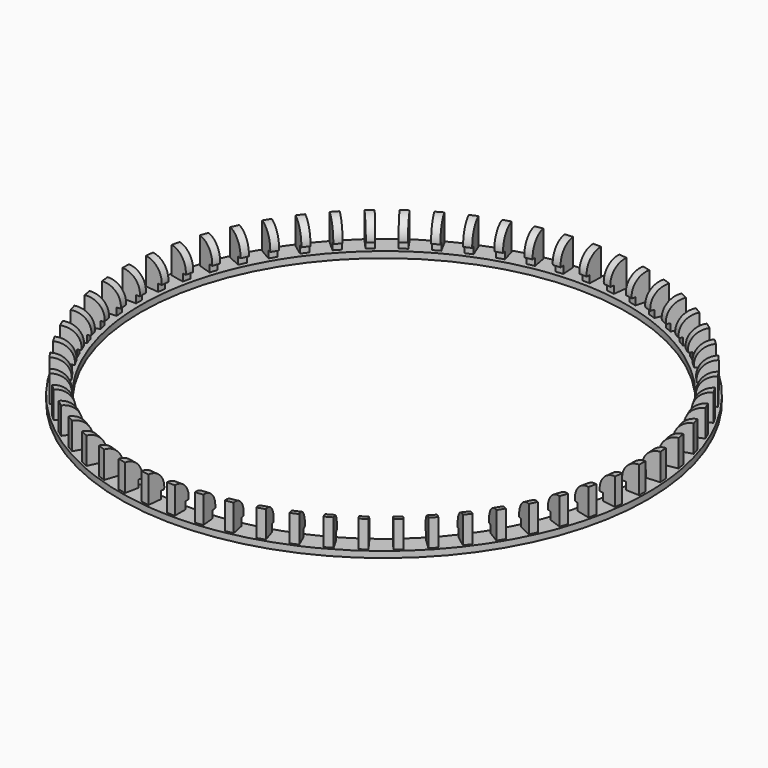
from build123d import *

# Parameters (mm, degrees)
F0_R     = 143.5
F0_R_2   = 132.3
F1_DEPTH = 18
F2_W     = 1.3
F2_H     = 14.6
F2_W_2   = 5
F2_H_2   = 2
F5_DEPTH = 14.6


with BuildPart() as f1:
    # F0 (on Top) → F1 (new body)
    with BuildSketch(Plane.XY):
        Circle(F0_R)
        Circle(F0_R_2, mode=Mode.SUBTRACT)
    extrude(amount=F1_DEPTH)

    # F2 (on Front) → F3 (revolve, cut)
    with BuildSketch(Plane.XZ):
        with Locations((-142.85, 10.7)):
            Rectangle(F2_W, F2_H)
        with BuildLine():
            Line((-132.3, 18), (-142.2, 18))
            ThreePointArc((-142.2, 18), (-135.116216, 14.813922), (-132.8, 7.4))
            Line((-132.8, 7.4), (-134.8, 7.4))
            Line((-134.8, 7.4), (-134.8, 3.4))
            Line((-134.8, 3.4), (-132.3, 3.4))
            Line((-132.3, 3.4), (-132.3, 18))
        make_face()
        with Locations((-138, 1)):
            Rectangle(F2_W_2, F2_H_2)
    revolve(axis=Axis((0, 0, 41.614685), (0, 0, 1)), mode=Mode.SUBTRACT)

    # F4 (on face) → F5 (cut)
    with BuildSketch(Plane.XY.offset(3.4)):
        with BuildLine():
            Line((-131.575247, 13.829116), (-142.713892, 14.999834))
            ThreePointArc((-142.713892, 14.999834), (-143.17348, 9.674949), (-143.434457, 4.336643))
            Line((-143.434457, 4.336643), (-132.239573, 3.998173))
            ThreePointArc((-132.239573, 3.998173), (-131.998964, 8.919831), (-131.575247, 13.829116))
        make_face()
        with BuildLine():
            Line((-132.3, 0), (-143.5, 0))
            ThreePointArc((-143.5, 0), (-143.400468, -5.343755), (-143.102011, -10.680097))
            Line((-143.102011, -10.680097), (-131.933073, -9.846529))
            ThreePointArc((-131.933073, -9.846529), (-132.208237, -4.926682), (-132.3, 0))
        make_face()
        with BuildLine():
            Line((-131.575247, -13.829116), (-142.713892, -14.999834))
            ThreePointArc((-142.713892, -14.999834), (-142.056331, -20.303912), (-141.201709, -25.579824))
            Line((-141.201709, -25.579824), (-130.181088, -23.58335))
            ThreePointArc((-130.181088, -23.58335), (-130.969008, -18.719216), (-131.575247, -13.829116))
        make_face()
        with BuildLine():
            Line((-129.408928, -27.506717), (-140.364181, -29.835328))
            ThreePointArc((-140.364181, -29.835328), (-139.155795, -35.041615), (-137.754372, -40.199293))
            Line((-137.754372, -40.199293), (-127.002811, -37.061787))
            ThreePointArc((-127.002811, -37.061787), (-128.294855, -32.30666), (-129.408928, -27.506717))
        make_face()
        with BuildLine():
            Line((-125.824777, -40.882948), (-136.47661, -44.343939))
            ThreePointArc((-136.47661, -44.343939), (-134.730639, -49.395395), (-132.797768, -54.378329))
            Line((-132.797768, -54.378329), (-122.433065, -50.134167))
            ThreePointArc((-122.433065, -50.134167), (-124.215077, -45.540144), (-125.824777, -40.882948))
        make_face()
        with BuildLine():
            Line((-120.862064, -53.811258), (-131.093773, -58.366708))
            ThreePointArc((-131.093773, -58.366708), (-128.829345, -63.207988), (-126.386205, -67.961586))
            Line((-126.386205, -67.961586), (-116.521916, -62.657267))
            ThreePointArc((-116.521916, -62.657267), (-118.774372, -58.274682), (-120.862064, -53.811258))
        make_face()
        with BuildLine():
            Line((-114.575161, -66.15), (-124.274645, -71.75))
            ThreePointArc((-124.274645, -71.75), (-121.516571, -76.328062), (-118.589928, -80.800241))
            Line((-118.589928, -80.800241), (-109.334129, -74.493881))
            ThreePointArc((-109.334129, -74.493881), (-112.032351, -70.37075), (-114.575161, -66.15))
        make_face()
        with BuildLine():
            Line((-107.032948, -77.763989), (-116.093939, -84.347184))
            ThreePointArc((-116.093939, -84.347184), (-112.872435, -88.611869), (-109.494355, -92.753632))
            Line((-109.494355, -92.753632), (-100.948454, -85.514324))
            ThreePointArc((-100.948454, -85.514324), (-104.062879, -81.695821), (-107.032948, -77.763989))
        make_face()
        with BuildLine():
            Line((-98.31806, -88.525979), (-106.641282, -96.020242))
            ThreePointArc((-106.641282, -96.020242), (-102.991646, -99.924826), (-99.199139, -103.690794))
            Line((-99.199139, -103.690794), (-91.456767, -95.597854))
            ThreePointArc((-91.456767, -95.597854), (-94.953273, -92.125815), (-98.31806, -88.525979))
        make_face()
        with BuildLine():
            Line((-88.525979, -98.31806), (-96.020242, -106.641282))
            ThreePointArc((-96.020242, -106.641282), (-91.982458, -110.142986), (-87.817076, -113.491899))
            Line((-87.817076, -113.491899), (-80.963061, -104.633995))
            ThreePointArc((-80.963061, -104.633995), (-84.80334, -101.54646), (-88.525979, -98.31806))
        make_face()
        with BuildLine():
            Line((-77.763989, -107.032948), (-84.347184, -116.093939))
            ThreePointArc((-84.347184, -116.093939), (-79.965492, -119.154396), (-75.472871, -122.049562))
            Line((-75.472871, -122.049562), (-69.582306, -112.523743))
            ThreePointArc((-69.582306, -112.523743), (-73.724283, -109.854541), (-77.763989, -107.032948))
        make_face()
        with BuildLine():
            Line((-66.15, -114.575161), (-71.75, -124.274645))
            ThreePointArc((-71.75, -124.274645), (-67.072406, -126.860326), (-62.30177, -129.270025))
            Line((-62.30177, -129.270025), (-57.439193, -119.180658))
            ThreePointArc((-57.439193, -119.180658), (-61.837487, -116.959032), (-66.15, -114.575161))
        make_face()
        with BuildLine():
            Line((-53.811258, -120.862064), (-58.366708, -131.093773))
            ThreePointArc((-58.366708, -131.093773), (-53.444462, -133.176347), (-48.448077, -135.074179))
            Line((-48.448077, -135.074179), (-44.666764, -124.531804))
            ThreePointArc((-44.666764, -124.531804), (-49.273187, -122.782096), (-53.811258, -120.862064))
        make_face()
        with BuildLine():
            Line((-40.882948, -125.824777), (-44.343939, -136.47661))
            ThreePointArc((-44.343939, -136.47661), (-39.230969, -138.033261), (-34.063577, -139.398432))
            Line((-34.063577, -139.398432), (-31.404957, -128.518554))
            ThreePointArc((-31.404957, -128.518554), (-36.169039, -127.259933), (-40.882948, -125.824777))
        make_face()
        with BuildLine():
            Line((-27.506717, -129.408928), (-29.835328, -140.364181))
            ThreePointArc((-29.835328, -140.364181), (-24.587653, -141.377853), (-19.30587, -142.195406))
            Line((-19.30587, -142.195406), (-17.79907, -131.097228))
            ThreePointArc((-17.79907, -131.097228), (-22.668616, -130.343484), (-27.506717, -129.408928))
        make_face()
        with BuildLine():
            Line((-13.829116, -131.575247), (-14.999834, -142.713892))
            ThreePointArc((-14.999834, -142.713892), (-9.674949, -143.17348), (-4.336643, -143.434457))
            Line((-4.336643, -143.434457), (-3.998173, -132.239573))
            ThreePointArc((-3.998173, -132.239573), (-8.919831, -131.998964), (-13.829116, -131.575247))
        make_face()
        with BuildLine():
            Line((0, -132.3), (0, -143.5))
            ThreePointArc((0, -143.5), (5.343755, -143.400468), (10.680097, -143.102011))
            Line((10.680097, -143.102011), (9.846529, -131.933073))
            ThreePointArc((9.846529, -131.933073), (4.926682, -132.208237), (0, -132.3))
        make_face()
        with BuildLine():
            Line((13.829116, -131.575247), (14.999834, -142.713892))
            ThreePointArc((14.999834, -142.713892), (20.303912, -142.056331), (25.579824, -141.201709))
            Line((25.579824, -141.201709), (23.58335, -130.181088))
            ThreePointArc((23.58335, -130.181088), (18.719216, -130.969008), (13.829116, -131.575247))
        make_face()
        with BuildLine():
            Line((27.506717, -129.408928), (29.835328, -140.364181))
            ThreePointArc((29.835328, -140.364181), (35.041615, -139.155795), (40.199293, -137.754372))
            Line((40.199293, -137.754372), (37.061787, -127.002811))
            ThreePointArc((37.061787, -127.002811), (32.30666, -128.294855), (27.506717, -129.408928))
        make_face()
        with BuildLine():
            Line((40.882948, -125.824777), (44.343939, -136.47661))
            ThreePointArc((44.343939, -136.47661), (49.395395, -134.730639), (54.378329, -132.797768))
            Line((54.378329, -132.797768), (50.134167, -122.433065))
            ThreePointArc((50.134167, -122.433065), (45.540144, -124.215077), (40.882948, -125.824777))
        make_face()
        with BuildLine():
            Line((53.811258, -120.862064), (58.366708, -131.093773))
            ThreePointArc((58.366708, -131.093773), (63.207988, -128.829345), (67.961586, -126.386205))
            Line((67.961586, -126.386205), (62.657267, -116.521916))
            ThreePointArc((62.657267, -116.521916), (58.274682, -118.774372), (53.811258, -120.862064))
        make_face()
        with BuildLine():
            Line((66.15, -114.575161), (71.75, -124.274645))
            ThreePointArc((71.75, -124.274645), (76.328062, -121.516571), (80.800241, -118.589928))
            Line((80.800241, -118.589928), (74.493881, -109.334129))
            ThreePointArc((74.493881, -109.334129), (70.37075, -112.032351), (66.15, -114.575161))
        make_face()
        with BuildLine():
            Line((77.763989, -107.032948), (84.347184, -116.093939))
            ThreePointArc((84.347184, -116.093939), (88.611869, -112.872435), (92.753632, -109.494355))
            Line((92.753632, -109.494355), (85.514324, -100.948454))
            ThreePointArc((85.514324, -100.948454), (81.695821, -104.062879), (77.763989, -107.032948))
        make_face()
        with BuildLine():
            Line((88.525979, -98.31806), (96.020242, -106.641282))
            ThreePointArc((96.020242, -106.641282), (99.924826, -102.991646), (103.690794, -99.199139))
            Line((103.690794, -99.199139), (95.597854, -91.456767))
            ThreePointArc((95.597854, -91.456767), (92.125815, -94.953273), (88.525979, -98.31806))
        make_face()
        with BuildLine():
            Line((98.31806, -88.525979), (106.641282, -96.020242))
            ThreePointArc((106.641282, -96.020242), (110.142986, -91.982458), (113.491899, -87.817076))
            Line((113.491899, -87.817076), (104.633995, -80.963061))
            ThreePointArc((104.633995, -80.963061), (101.54646, -84.80334), (98.31806, -88.525979))
        make_face()
        with BuildLine():
            Line((107.032948, -77.763989), (116.093939, -84.347184))
            ThreePointArc((116.093939, -84.347184), (119.154396, -79.965492), (122.049562, -75.472871))
            Line((122.049562, -75.472871), (112.523743, -69.582306))
            ThreePointArc((112.523743, -69.582306), (109.854541, -73.724283), (107.032948, -77.763989))
        make_face()
        with BuildLine():
            Line((114.575161, -66.15), (124.274645, -71.75))
            ThreePointArc((124.274645, -71.75), (126.860326, -67.072406), (129.270025, -62.30177))
            Line((129.270025, -62.30177), (119.180658, -57.439193))
            ThreePointArc((119.180658, -57.439193), (116.959032, -61.837487), (114.575161, -66.15))
        make_face()
        with BuildLine():
            Line((120.862064, -53.811258), (131.093773, -58.366708))
            ThreePointArc((131.093773, -58.366708), (133.176347, -53.444462), (135.074179, -48.448077))
            Line((135.074179, -48.448077), (124.531804, -44.666764))
            ThreePointArc((124.531804, -44.666764), (122.782096, -49.273187), (120.862064, -53.811258))
        make_face()
        with BuildLine():
            Line((125.824777, -40.882948), (136.47661, -44.343939))
            ThreePointArc((136.47661, -44.343939), (138.033261, -39.230969), (139.398432, -34.063577))
            Line((139.398432, -34.063577), (128.518554, -31.404957))
            ThreePointArc((128.518554, -31.404957), (127.259933, -36.169039), (125.824777, -40.882948))
        make_face()
        with BuildLine():
            Line((129.408928, -27.506717), (140.364181, -29.835328))
            ThreePointArc((140.364181, -29.835328), (141.377853, -24.587653), (142.195406, -19.30587))
            Line((142.195406, -19.30587), (131.097228, -17.79907))
            ThreePointArc((131.097228, -17.79907), (130.343484, -22.668616), (129.408928, -27.506717))
        make_face()
        with BuildLine():
            Line((131.575247, -13.829116), (142.713892, -14.999834))
            ThreePointArc((142.713892, -14.999834), (143.17348, -9.674949), (143.434457, -4.336643))
            Line((143.434457, -4.336643), (132.239573, -3.998173))
            ThreePointArc((132.239573, -3.998173), (131.998964, -8.919831), (131.575247, -13.829116))
        make_face()
        with BuildLine():
            Line((132.3, 0), (143.5, 0))
            ThreePointArc((143.5, 0), (143.400468, 5.343755), (143.102011, 10.680097))
            Line((143.102011, 10.680097), (131.933073, 9.846529))
            ThreePointArc((131.933073, 9.846529), (132.208237, 4.926682), (132.3, 0))
        make_face()
        with BuildLine():
            Line((131.575247, 13.829116), (142.713892, 14.999834))
            ThreePointArc((142.713892, 14.999834), (142.056331, 20.303912), (141.201709, 25.579824))
            Line((141.201709, 25.579824), (130.181088, 23.58335))
            ThreePointArc((130.181088, 23.58335), (130.969008, 18.719216), (131.575247, 13.829116))
        make_face()
        with BuildLine():
            Line((129.408928, 27.506717), (140.364181, 29.835328))
            ThreePointArc((140.364181, 29.835328), (139.155795, 35.041615), (137.754372, 40.199293))
            Line((137.754372, 40.199293), (127.002811, 37.061787))
            ThreePointArc((127.002811, 37.061787), (128.294855, 32.30666), (129.408928, 27.506717))
        make_face()
        with BuildLine():
            Line((125.824777, 40.882948), (136.47661, 44.343939))
            ThreePointArc((136.47661, 44.343939), (134.730639, 49.395395), (132.797768, 54.378329))
            Line((132.797768, 54.378329), (122.433065, 50.134167))
            ThreePointArc((122.433065, 50.134167), (124.215077, 45.540144), (125.824777, 40.882948))
        make_face()
        with BuildLine():
            Line((120.862064, 53.811258), (131.093773, 58.366708))
            ThreePointArc((131.093773, 58.366708), (128.829345, 63.207988), (126.386205, 67.961586))
            Line((126.386205, 67.961586), (116.521916, 62.657267))
            ThreePointArc((116.521916, 62.657267), (118.774372, 58.274682), (120.862064, 53.811258))
        make_face()
        with BuildLine():
            Line((114.575161, 66.15), (124.274645, 71.75))
            ThreePointArc((124.274645, 71.75), (121.516571, 76.328062), (118.589928, 80.800241))
            Line((118.589928, 80.800241), (109.334129, 74.493881))
            ThreePointArc((109.334129, 74.493881), (112.032351, 70.37075), (114.575161, 66.15))
        make_face()
        with BuildLine():
            Line((107.032948, 77.763989), (116.093939, 84.347184))
            ThreePointArc((116.093939, 84.347184), (112.872435, 88.611869), (109.494355, 92.753632))
            Line((109.494355, 92.753632), (100.948454, 85.514324))
            ThreePointArc((100.948454, 85.514324), (104.062879, 81.695821), (107.032948, 77.763989))
        make_face()
        with BuildLine():
            Line((98.31806, 88.525979), (106.641282, 96.020242))
            ThreePointArc((106.641282, 96.020242), (102.991646, 99.924826), (99.199139, 103.690794))
            Line((99.199139, 103.690794), (91.456767, 95.597854))
            ThreePointArc((91.456767, 95.597854), (94.953273, 92.125815), (98.31806, 88.525979))
        make_face()
        with BuildLine():
            Line((88.525979, 98.31806), (96.020242, 106.641282))
            ThreePointArc((96.020242, 106.641282), (91.982458, 110.142986), (87.817076, 113.491899))
            Line((87.817076, 113.491899), (80.963061, 104.633995))
            ThreePointArc((80.963061, 104.633995), (84.80334, 101.54646), (88.525979, 98.31806))
        make_face()
        with BuildLine():
            Line((77.763989, 107.032948), (84.347184, 116.093939))
            ThreePointArc((84.347184, 116.093939), (79.965492, 119.154396), (75.472871, 122.049562))
            Line((75.472871, 122.049562), (69.582306, 112.523743))
            ThreePointArc((69.582306, 112.523743), (73.724283, 109.854541), (77.763989, 107.032948))
        make_face()
        with BuildLine():
            Line((66.15, 114.575161), (71.75, 124.274645))
            ThreePointArc((71.75, 124.274645), (67.072406, 126.860326), (62.30177, 129.270025))
            Line((62.30177, 129.270025), (57.439193, 119.180658))
            ThreePointArc((57.439193, 119.180658), (61.837487, 116.959032), (66.15, 114.575161))
        make_face()
        with BuildLine():
            Line((53.811258, 120.862064), (58.366708, 131.093773))
            ThreePointArc((58.366708, 131.093773), (53.444462, 133.176347), (48.448077, 135.074179))
            Line((48.448077, 135.074179), (44.666764, 124.531804))
            ThreePointArc((44.666764, 124.531804), (49.273187, 122.782096), (53.811258, 120.862064))
        make_face()
        with BuildLine():
            Line((40.882948, 125.824777), (44.343939, 136.47661))
            ThreePointArc((44.343939, 136.47661), (39.230969, 138.033261), (34.063577, 139.398432))
            Line((34.063577, 139.398432), (31.404957, 128.518554))
            ThreePointArc((31.404957, 128.518554), (36.169039, 127.259933), (40.882948, 125.824777))
        make_face()
        with BuildLine():
            Line((27.506717, 129.408928), (29.835328, 140.364181))
            ThreePointArc((29.835328, 140.364181), (24.587653, 141.377853), (19.30587, 142.195406))
            Line((19.30587, 142.195406), (17.79907, 131.097228))
            ThreePointArc((17.79907, 131.097228), (22.668616, 130.343484), (27.506717, 129.408928))
        make_face()
        with BuildLine():
            Line((13.829116, 131.575247), (14.999834, 142.713892))
            ThreePointArc((14.999834, 142.713892), (9.674949, 143.17348), (4.336643, 143.434457))
            Line((4.336643, 143.434457), (3.998173, 132.239573))
            ThreePointArc((3.998173, 132.239573), (8.919831, 131.998964), (13.829116, 131.575247))
        make_face()
        with BuildLine():
            Line((0, 132.3), (0, 143.5))
            ThreePointArc((0, 143.5), (-5.343755, 143.400468), (-10.680097, 143.102011))
            Line((-10.680097, 143.102011), (-9.846529, 131.933073))
            ThreePointArc((-9.846529, 131.933073), (-4.926682, 132.208237), (0, 132.3))
        make_face()
        with BuildLine():
            Line((-13.829116, 131.575247), (-14.999834, 142.713892))
            ThreePointArc((-14.999834, 142.713892), (-20.303912, 142.056331), (-25.579824, 141.201709))
            Line((-25.579824, 141.201709), (-23.58335, 130.181088))
            ThreePointArc((-23.58335, 130.181088), (-18.719216, 130.969008), (-13.829116, 131.575247))
        make_face()
        with BuildLine():
            Line((-27.506717, 129.408928), (-29.835328, 140.364181))
            ThreePointArc((-29.835328, 140.364181), (-35.041615, 139.155795), (-40.199293, 137.754372))
            Line((-40.199293, 137.754372), (-37.061787, 127.002811))
            ThreePointArc((-37.061787, 127.002811), (-32.30666, 128.294855), (-27.506717, 129.408928))
        make_face()
        with BuildLine():
            Line((-40.882948, 125.824777), (-44.343939, 136.47661))
            ThreePointArc((-44.343939, 136.47661), (-49.395395, 134.730639), (-54.378329, 132.797768))
            Line((-54.378329, 132.797768), (-50.134167, 122.433065))
            ThreePointArc((-50.134167, 122.433065), (-45.540144, 124.215077), (-40.882948, 125.824777))
        make_face()
        with BuildLine():
            Line((-53.811258, 120.862064), (-58.366708, 131.093773))
            ThreePointArc((-58.366708, 131.093773), (-63.207988, 128.829345), (-67.961586, 126.386205))
            Line((-67.961586, 126.386205), (-62.657267, 116.521916))
            ThreePointArc((-62.657267, 116.521916), (-58.274682, 118.774372), (-53.811258, 120.862064))
        make_face()
        with BuildLine():
            Line((-66.15, 114.575161), (-71.75, 124.274645))
            ThreePointArc((-71.75, 124.274645), (-76.328062, 121.516571), (-80.800241, 118.589928))
            Line((-80.800241, 118.589928), (-74.493881, 109.334129))
            ThreePointArc((-74.493881, 109.334129), (-70.37075, 112.032351), (-66.15, 114.575161))
        make_face()
        with BuildLine():
            Line((-77.763989, 107.032948), (-84.347184, 116.093939))
            ThreePointArc((-84.347184, 116.093939), (-88.611869, 112.872435), (-92.753632, 109.494355))
            Line((-92.753632, 109.494355), (-85.514324, 100.948454))
            ThreePointArc((-85.514324, 100.948454), (-81.695821, 104.062879), (-77.763989, 107.032948))
        make_face()
        with BuildLine():
            Line((-88.525979, 98.31806), (-96.020242, 106.641282))
            ThreePointArc((-96.020242, 106.641282), (-99.924826, 102.991646), (-103.690794, 99.199139))
            Line((-103.690794, 99.199139), (-95.597854, 91.456767))
            ThreePointArc((-95.597854, 91.456767), (-92.125815, 94.953273), (-88.525979, 98.31806))
        make_face()
        with BuildLine():
            Line((-98.31806, 88.525979), (-106.641282, 96.020242))
            ThreePointArc((-106.641282, 96.020242), (-110.142986, 91.982458), (-113.491899, 87.817076))
            Line((-113.491899, 87.817076), (-104.633995, 80.963061))
            ThreePointArc((-104.633995, 80.963061), (-101.54646, 84.80334), (-98.31806, 88.525979))
        make_face()
        with BuildLine():
            Line((-107.032948, 77.763989), (-116.093939, 84.347184))
            ThreePointArc((-116.093939, 84.347184), (-119.154396, 79.965492), (-122.049562, 75.472871))
            Line((-122.049562, 75.472871), (-112.523743, 69.582306))
            ThreePointArc((-112.523743, 69.582306), (-109.854541, 73.724283), (-107.032948, 77.763989))
        make_face()
        with BuildLine():
            Line((-114.575161, 66.15), (-124.274645, 71.75))
            ThreePointArc((-124.274645, 71.75), (-126.860326, 67.072406), (-129.270025, 62.30177))
            Line((-129.270025, 62.30177), (-119.180658, 57.439193))
            ThreePointArc((-119.180658, 57.439193), (-116.959032, 61.837487), (-114.575161, 66.15))
        make_face()
        with BuildLine():
            Line((-120.862064, 53.811258), (-131.093773, 58.366708))
            ThreePointArc((-131.093773, 58.366708), (-133.176347, 53.444462), (-135.074179, 48.448077))
            Line((-135.074179, 48.448077), (-124.531804, 44.666764))
            ThreePointArc((-124.531804, 44.666764), (-122.782096, 49.273187), (-120.862064, 53.811258))
        make_face()
        with BuildLine():
            Line((-125.824777, 40.882948), (-136.47661, 44.343939))
            ThreePointArc((-136.47661, 44.343939), (-138.033261, 39.230969), (-139.398432, 34.063577))
            Line((-139.398432, 34.063577), (-128.518554, 31.404957))
            ThreePointArc((-128.518554, 31.404957), (-127.259933, 36.169039), (-125.824777, 40.882948))
        make_face()
        with BuildLine():
            Line((-129.408928, 27.506717), (-140.364181, 29.835328))
            ThreePointArc((-140.364181, 29.835328), (-141.377853, 24.587653), (-142.195406, 19.30587))
            Line((-142.195406, 19.30587), (-131.097228, 17.79907))
            ThreePointArc((-131.097228, 17.79907), (-130.343484, 22.668616), (-129.408928, 27.506717))
        make_face()
    extrude(amount=F5_DEPTH, mode=Mode.SUBTRACT)


solid = f1.part
